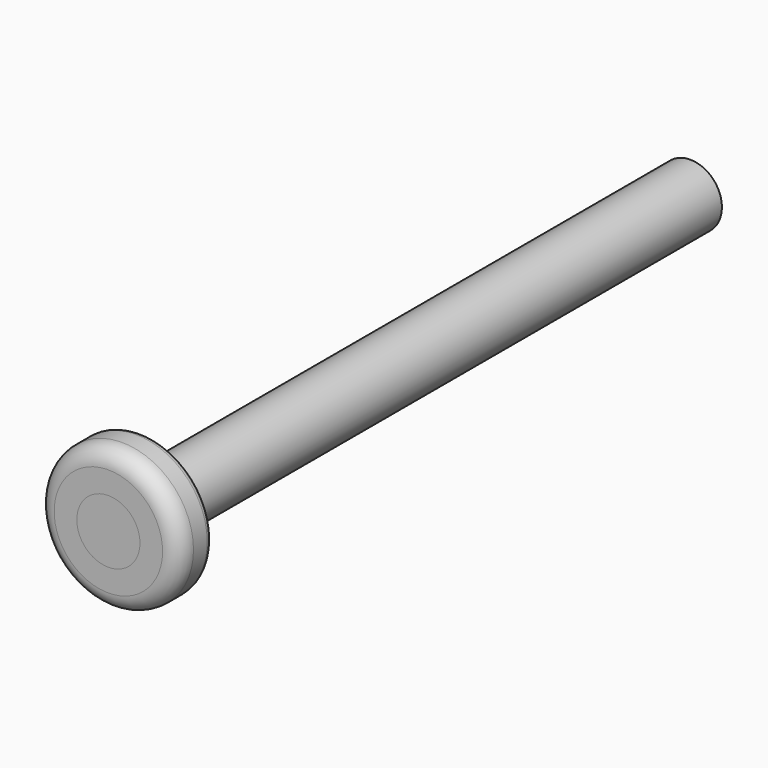
from build123d import *

# Parameters (mm, degrees)
F0_R     = 2.6416
F0_R_2   = 1.1684
F1_DEPTH = 1.524
F2_R     = 1.1684
F3_DEPTH = 26.924
F4_R     = 0.635
F5_R     = 0.254


with BuildPart() as f1:
    # F0 (on Front) → F1 (new body)
    with BuildSketch(Plane.XZ):
        Circle(F0_R)
        Circle(F0_R_2, mode=Mode.SUBTRACT)
    extrude(amount=-F1_DEPTH)

    # F4
    f4_edges = [f1.edges().sort_by_distance(p)[0] for p in [
        (-2.6416, 0, 0),
    ]]
    fillet(f4_edges, radius=F4_R)

    # F5
    f5_edges = [f1.edges().sort_by_distance(p)[0] for p in [
        (-2.6416, 1.524, 0),
    ]]
    fillet(f5_edges, radius=F5_R)


with BuildPart() as f3:
    # F2 (on face) → F3 (new body)
    with BuildSketch(Plane.XZ):
        Circle(F2_R)
    extrude(amount=-F3_DEPTH)


solid = Compound([f1.part, f3.part])
